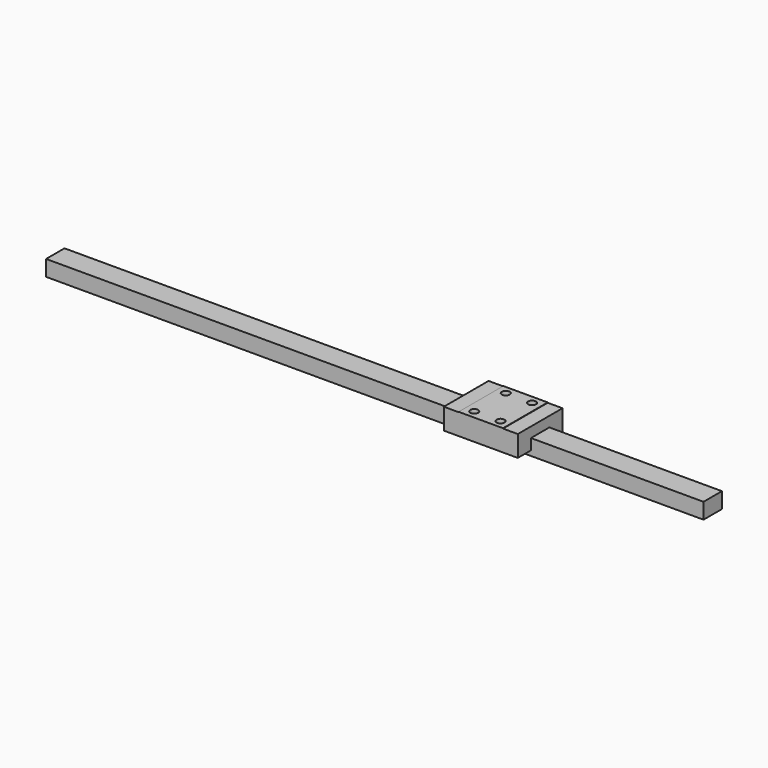
from build123d import *

# Parameters (mm, degrees)
SKETCH018_W             = 7
SKETCH018_H             = 4.8
PAD006_DEPTH            = 200
SKETCH019_W             = 17
SKETCH019_H             = 22.5
PAD007_DEPTH            = 6.5
SKETCH021_W             = 17
SKETCH021_H             = 4.5
POCKET012_DEPTH         = 0.1
SKETCH020_R             = 1.2
POCKET013_DEPTH         = 2.5
BODY004_PLACEMENT_ANGLE = 90


with BuildPart() as part:
    # Sketch018 → Pad006 (new body)
    with BuildSketch(Plane.XZ):
        with Locations((3.5, 2.4)):
            Rectangle(SKETCH018_W, SKETCH018_H)
    extrude(amount=-PAD006_DEPTH)

    # Sketch019 (on Face1 of Pad006) → Pad007 (join)
    with BuildSketch(Plane(origin=(0, 0, 1.5), x_dir=(-1, 0, 0), z_dir=(0, 0, 1))):
        with Locations((-3.5, -63.75)):
            Rectangle(SKETCH019_W, SKETCH019_H)
    extrude(amount=PAD007_DEPTH)

    # Sketch021 (on Face13 of Pad007) → Pocket012 (cut)
    with BuildSketch(Plane(origin=(0, 0, 8), x_dir=(-1, 0, 0), z_dir=(0, 0, 1))):
        with Locations((-3.5, -54.75)):
            Rectangle(SKETCH021_W, SKETCH021_H)
        with Locations((-3.5, -72.75)):
            Rectangle(SKETCH021_W, SKETCH021_H)
    extrude(amount=-POCKET012_DEPTH, mode=Mode.SUBTRACT)

    # Sketch020 (on Face17 of Pocket012) → Pocket013 (cut)
    with BuildSketch(Plane(origin=(0, 0, 8), x_dir=(-1, 0, 0), z_dir=(0, 0, 1))):
        with Locations((-9.5, -59.75)):
            Circle(SKETCH020_R)
        with Locations((2.5, -59.75)):
            Circle(SKETCH020_R)
        with Locations((2.5, -67.75)):
            Circle(SKETCH020_R)
        with Locations((-9.5, -67.75)):
            Circle(SKETCH020_R)
    extrude(amount=-POCKET013_DEPTH, mode=Mode.SUBTRACT)


with BuildPart() as part_1:
    # Body004 placement: moved
    add(part.part.moved(Location((100, -3.5, 9))).rotate(Axis((100, -3.5, 9), (0, 0, 1)), BODY004_PLACEMENT_ANGLE))


solid = part_1.part
